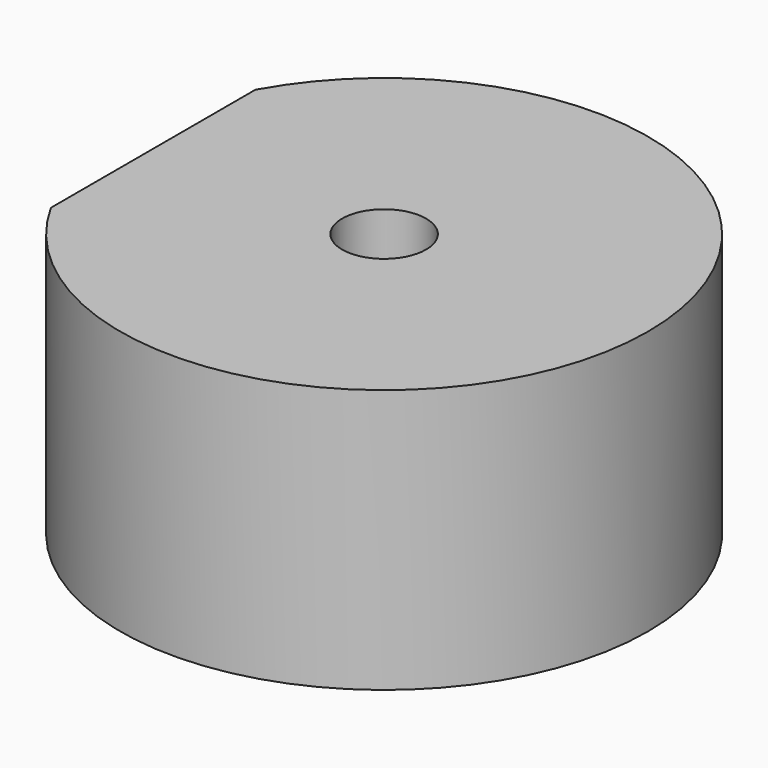
from build123d import *

# Parameters (mm, degrees)
F0_R     = 12.7
F0_R_2   = 2.0193
F1_DEPTH = 12.7
F2_W     = 3.175
F2_H     = 12.7
F3_DEPTH = 12.7
F5_D     = 4.0386
F5_DEPTH = 7.9502
F5_TIP   = 1.213317848
F7_D     = 4.0386
F7_DEPTH = 7.9502
F7_TIP   = 1.213317848


with BuildPart() as f1:
    # F0 (on Top) → F1 (new body)
    with BuildSketch(Plane.XY):
        Circle(F0_R)
        Circle(F0_R_2, mode=Mode.SUBTRACT)
    extrude(amount=F1_DEPTH)

    # F2 (on Front) → F3 (cut, symmetric)
    with BuildSketch(Plane.XZ):
        with Locations((-12.7, 9.525)):
            Rectangle(F2_W, F2_H)
    extrude(amount=F3_DEPTH, both=True, mode=Mode.SUBTRACT)

    # F5
    with Locations(Plane(origin=(-11.1125, 0, 0), x_dir=(0, -1, 0), z_dir=(-1, 0, 0))):
        with Locations((0, 7.9375)):
            Hole(F5_D / 2, depth=F5_DEPTH)
            with Locations((0, 0, -(F5_DEPTH + F5_TIP / 2))):  # 118° drill point
                Cone(0, F5_D / 2, F5_TIP, mode=Mode.SUBTRACT)

    # F7
    with Locations(Plane(origin=(0, 0, 0), x_dir=(1, 0, 0), z_dir=(0, 0, -1))):
        with Locations((-6.35, 0)):
            Hole(F7_D / 2, depth=F7_DEPTH)
            with Locations((0, 0, -(F7_DEPTH + F7_TIP / 2))):  # 118° drill point
                Cone(0, F7_D / 2, F7_TIP, mode=Mode.SUBTRACT)


solid = f1.part
